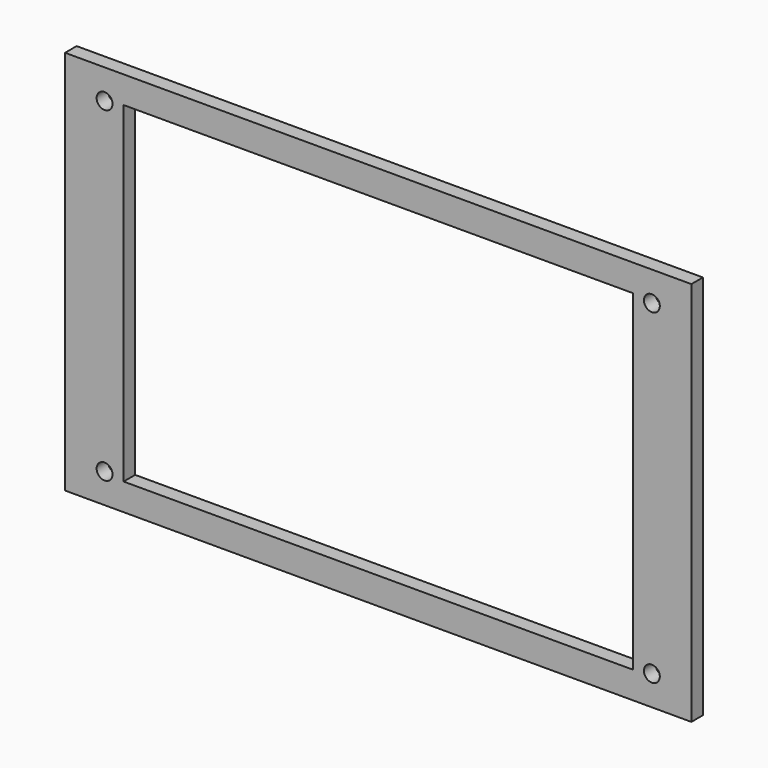
from build123d import *

# Parameters (mm, degrees)
F0_W     = 130
F0_H     = 80
F0_R     = 1.65
F0_W_2   = 105.7
F0_H_2   = 68.8
F1_DEPTH = 3


with BuildPart() as f1:
    # F0 (on Front) → F1 (new body)
    with BuildSketch(Plane.XZ):
        Rectangle(F0_W, F0_H)
        with Locations((-56.8, -33.85)):
            Circle(F0_R, mode=Mode.SUBTRACT)
        with Locations((56.8, -33.85)):
            Circle(F0_R, mode=Mode.SUBTRACT)
        with Locations((-56.8, 33.85)):
            Circle(F0_R, mode=Mode.SUBTRACT)
        Rectangle(F0_W_2, F0_H_2, mode=Mode.SUBTRACT)
        with Locations((56.8, 33.85)):
            Circle(F0_R, mode=Mode.SUBTRACT)
    extrude(amount=F1_DEPTH)


solid = f1.part
